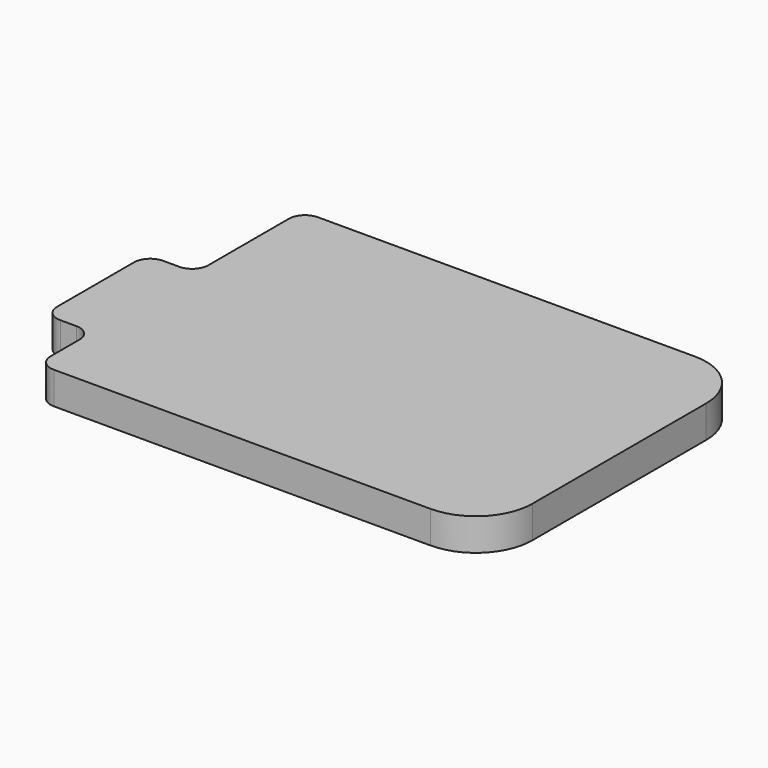
from build123d import *

# Parameters (mm, degrees)
F1_DEPTH = 2


with BuildPart() as f1:
    # F0 (on Top) → F1 (new body)
    with BuildSketch(Plane.XY):
        with BuildLine():
            Line((-3.5, 20.47), (-26.87, 20.47))
            ThreePointArc((-26.87, 20.47), (-27.577107, 20.177107), (-27.87, 19.47))
            Line((-27.87, 19.47), (-27.87, 13.22))
            ThreePointArc((-27.87, 13.22), (-28.162893, 12.512893), (-28.87, 12.22))
            Line((-28.87, 12.22), (-29.87, 12.22))
            ThreePointArc((-29.87, 12.22), (-30.577107, 11.927107), (-30.87, 11.22))
            Line((-30.87, 11.22), (-30.87, 5.25))
            ThreePointArc((-30.87, 5.25), (-30.577107, 4.542893), (-29.87, 4.25))
            Line((-29.87, 4.25), (-28.87, 4.25))
            ThreePointArc((-28.87, 4.25), (-28.162893, 3.957107), (-27.87, 3.25))
            Line((-27.87, 3.25), (-27.87, 1))
            ThreePointArc((-27.87, 1), (-27.577107, 0.292893), (-26.87, 0))
            Line((-26.87, 0), (-3.5, 0))
            ThreePointArc((-3.5, 0), (-1.025126, 1.025126), (0, 3.5))
            Line((0, 3.5), (0, 16.97))
            ThreePointArc((0, 16.97), (-1.025126, 19.444874), (-3.5, 20.47))
        make_face()
    extrude(amount=F1_DEPTH)


solid = f1.part
